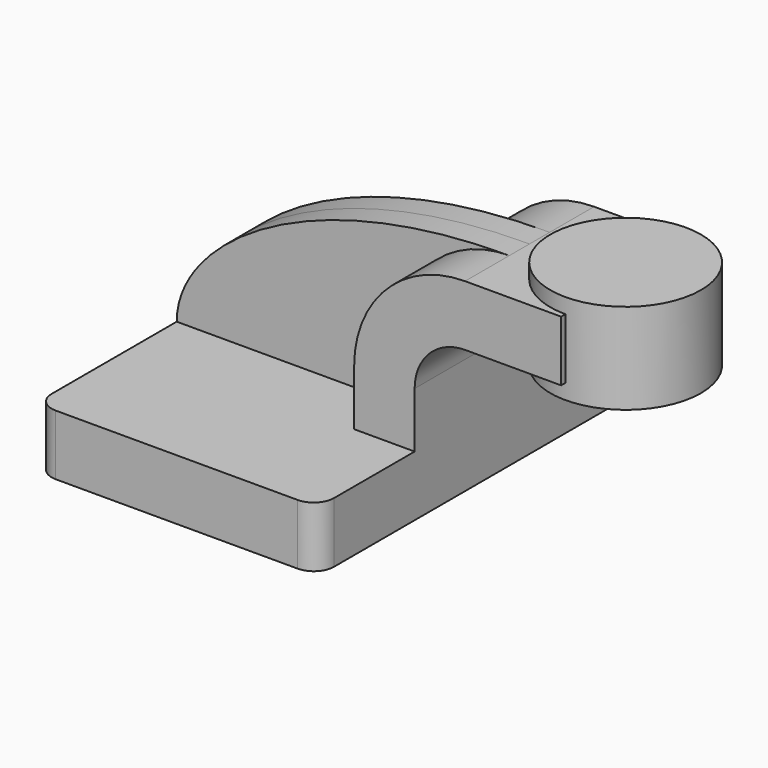
from build123d import *

# Parameters (mm, degrees)
F1_DEPTH = 63.5
F0_W     = 27.0789953068
F0_H     = 19.05
F2_DEPTH = 25.4
F3_DEPTH = 7.9375
F5_R     = 6.35


with BuildPart() as f1:
    # F0 (on Front) → F1 (new body, symmetric)
    with BuildSketch(Plane.XZ):
        Polygon((-44.45, -9.525), (44.45, -9.525), (44.45, 9.525), (25.4, 9.525), (-44.45, 9.525), align=None)
    extrude(amount=F1_DEPTH, both=True)

    # F0 (on Front) → F2 (join, symmetric)
    with BuildSketch(Plane.XZ):
        with BuildLine():
            Line((25.4, 9.525), (44.45, 9.525))
            Line((44.45, 9.525), (44.45, 27.0002))
            ThreePointArc((44.45, 27.0002), (49.0996798487, 38.2255201513), (60.325, 42.8752))
            Line((60.325, 42.8752), (63.5, 42.8752))
            Line((63.5, 42.8752), (63.5, 61.9252))
            Line((63.5, 61.9252), (60.325, 61.9252))
            ThreePointArc((60.325, 61.9252), (35.6292956671, 51.6959043329), (25.4, 27.0002))
            Line((25.4, 27.0002), (25.4, 9.525))
        make_face()
        with Locations((77.0394976534, 52.4002)):
            Rectangle(F0_W, F0_H)
    extrude(amount=F2_DEPTH, both=True)

    # F0 (on Front) → F3 (join, symmetric)
    with BuildSketch(Plane.XZ):
        with BuildLine():
            add(Edge.make_bspline(
                [(-44.45, 9.525), (-44.45, 32.9757705331), (-4.7052279115, 61.9252), (60.325, 61.9252)],
                knots=[0, 0, 0, 0, 117.1476913347, 117.1476913347, 117.1476913347, 117.1476913347], degree=3))
            Line((-44.45, 9.525), (25.4, 9.525))
            Line((25.4, 9.525), (25.4, 27.0002))
            ThreePointArc((25.4, 27.0002), (35.6292956671, 51.6959043329), (60.325, 61.9252))
        make_face()
    extrude(amount=F3_DEPTH, both=True)

    # F5
    f5_edges = [f1.edges().sort_by_distance(p)[0] for p in [
        (44.45, -63.5, 0),
        (-44.45, -63.5, 0),
        (44.45, 63.5, 0),
        (-44.45, 63.5, 0),
    ]]
    fillet(f5_edges, radius=F5_R)


with BuildPart() as f4:
    # F0 (on Front) → F4 (revolve)
    with BuildSketch(Plane.XZ):
        Polygon((90.5789953068, 66.675), (90.5789953068, 61.9252), (90.5789953068, 42.8752), (90.5789953068, 38.1), (114.3, 38.1), (114.3, 66.675), align=None)
    revolve(axis=Axis((90.5789953068, 0, 52.3875), (0, 0, -1)))


solid = Compound([f1.part, f4.part])
